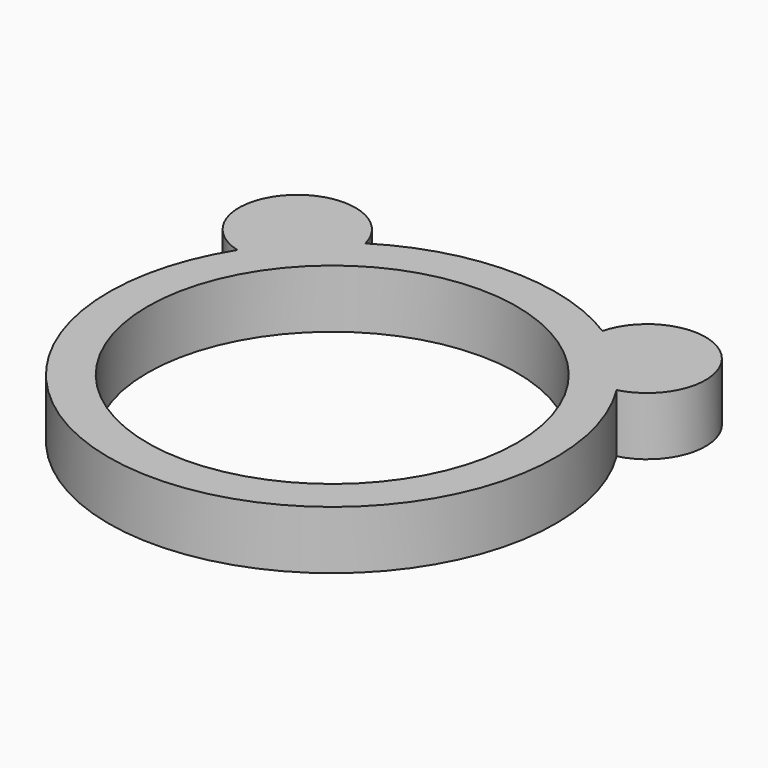
from build123d import *

# Parameters (mm, degrees)
CYLINDER003_R     = 3
CYLINDER003_DEPTH = 3
CYLINDER001_R     = 9.5
CYLINDER001_DEPTH = 10
CYLINDER_R        = 11.5
CYLINDER_DEPTH    = 3
CYLINDER002_R     = 3
CYLINDER002_DEPTH = 3


with BuildPart() as obj1:
    # Cylinder003 → Cylinder003 (new body)
    with BuildSketch(Plane(origin=(9, 9, 0), x_dir=(1, 0, 0), z_dir=(0, 0, 1))):
        Circle(CYLINDER003_R)
    extrude(amount=CYLINDER003_DEPTH)


with BuildPart() as cilindro_interior:
    # Cylinder001 → Cylinder001 (new body)
    with BuildSketch(Plane.XY.offset(-4)):
        Circle(CYLINDER001_R)
    extrude(amount=CYLINDER001_DEPTH)


with BuildPart() as obj2:
    # Cylinder → Cylinder (new body)
    with BuildSketch(Plane.XY):
        Circle(CYLINDER_R)
    extrude(amount=CYLINDER_DEPTH)

    # Cut: cut Cilindro-interior
    add(cilindro_interior.part, mode=Mode.SUBTRACT)


with BuildPart() as obj3:
    # Cylinder002 → Cylinder002 (new body)
    with BuildSketch(Plane(origin=(-9, 9, 0), x_dir=(1, 0, 0), z_dir=(0, 0, 1))):
        Circle(CYLINDER002_R)
    extrude(amount=CYLINDER002_DEPTH)

    # Fusion: union obj1, obj2
    add(obj1.part)
    add(obj2.part)


solid = obj3.part
